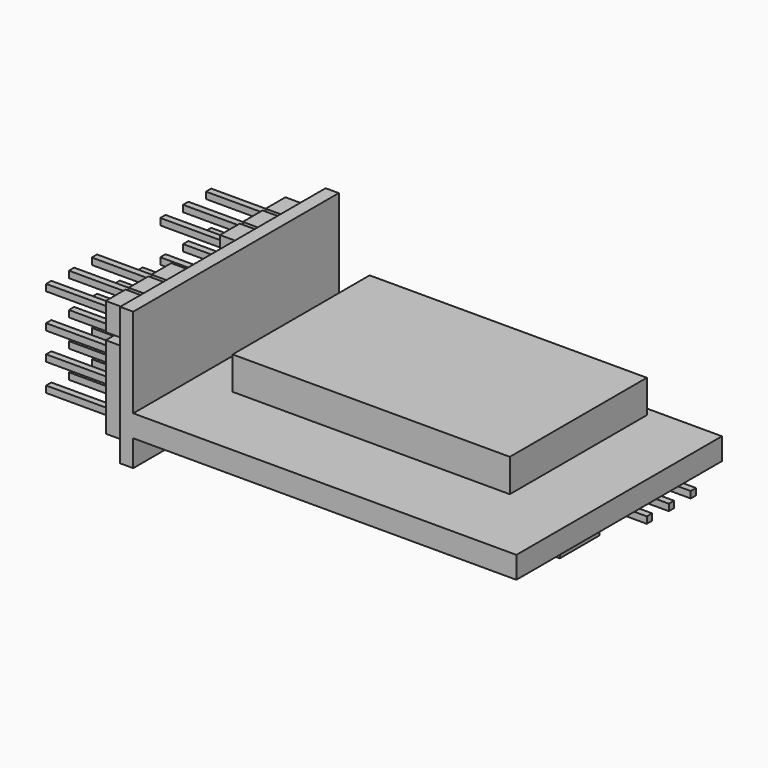
from build123d import *

# Parameters (mm, degrees)
F0_W      = 36.1
F0_H      = 23.4
F0_W_2    = 25.25
F0_H_2    = 15.6
F1_DEPTH  = 2
F2_W      = 2.25
F2_H      = 2.5
F2_W_2    = 0.6
F2_H_2    = 0.6
F2_W_3    = 0.35
F2_H_3    = 1.45
F2_H_4    = 0.5
F2_W_4    = 1.45
F2_H_5    = 2
F2_W_5    = 0.05
F2_H_6    = 0.15
F2_H_7    = 0.1
F1_FACE_W = 23.4
F1_FACE_H = 2
F3_DEPTH  = 1.2
F4_DEPTH  = 2.5
F5_DEPTH  = 8.6
F6_DEPTH  = 5
F7_W      = 2.3
F7_H      = 7.5
F7_W_2    = 0.2
F8_DEPTH  = 2.5
F9_W      = 0.6
F9_H      = 0.6
F10_DEPTH = 6
F7_W_3    = 2.5
F7_H_2    = 4.5
F11_DEPTH = 1.5


with BuildPart() as f1:
    # F0 (on Top) → F1 (new body)
    with BuildSketch(Plane.XY):
        with Locations((18.05, 11.7)):
            Rectangle(F0_W, F0_H)
        with Locations((17.275, 14.8)):
            Rectangle(F0_W_2, F0_H_2, mode=Mode.SUBTRACT)
    extrude(amount=F1_DEPTH)

    # F2 (on face) + F1_face (on face) → F3 (join)
    with BuildSketch(Plane(origin=(0, 0, 0), x_dir=(0, -1, 0), z_dir=(-1, 0, 0))):
        Polygon((-1.45, 2), (0, 2), (0, 10.15), (-23.4, 10.15), (-23.4, 2), (-21.95, 2), (-21.95, 3.55), (-21.95, 6.05), (-21.95, 6.2), (-21.95, 6.7), (-21.95, 9.2), (-19.7, 9.2), (-19.35, 9.2), (-17.1, 9.2), (-16.75, 9.2), (-14.5, 9.2), (-14.15, 9.2), (-11.9, 9.2), (-11.55, 9.2), (-9.3, 9.2), (-8.95, 9.2), (-6.7, 9.2), (-6.35, 9.2), (-4.1, 9.2), (-3.75, 9.2), (-1.5, 9.2), (-1.45, 9.2), align=None)
        Polygon((-23.4, -2.4), (0, -2.4), (0, 0), (-1.45, 0), (-1.45, -1.45), (-1.5, -1.45), (-3.75, -1.45), (-4.1, -1.45), (-6.35, -1.45), (-6.7, -1.45), (-8.95, -1.45), (-9.3, -1.45), (-11.55, -1.45), (-11.9, -1.45), (-14.15, -1.45), (-14.5, -1.45), (-16.75, -1.45), (-17.1, -1.45), (-19.35, -1.45), (-19.7, -1.45), (-21.95, -1.45), (-21.95, 0), (-23.4, 0), align=None)
        with Locations((-20.825, 4.8)):
            Rectangle(F2_W, F2_H)
        with Locations((-20.825, 4.8)):
            Rectangle(F2_W_2, F2_H_2, mode=Mode.SUBTRACT)
        Polygon((-19.7, 6.05), (-19.7, 3.55), (-19.7, 2), (-19.35, 2), (-19.35, 3.55), (-19.35, 6.05), (-19.35, 6.2), (-19.35, 6.7), (-19.35, 9.2), (-19.7, 9.2), (-19.7, 6.7), (-19.7, 6.2), align=None)
        Polygon((-1.5, -1.45), (-1.5, 0), (-2.325, 0), (-2.325, -0.5), (-2.925, -0.5), (-2.925, 0), (-3.75, 0), (-3.75, -1.45), align=None)
        with Locations((-6.525, -0.725)):
            Rectangle(F2_W_3, F2_H_3)
        Polygon((-3.75, 0), (-3.75, 1.05), (-3.75, 2), (-4.1, 2), (-4.1, 1.05), (-4.1, 0), align=None)
        Polygon((-14.5, 1.05), (-14.5, 0), (-14.15, 0), (-14.15, 1.05), (-14.15, 2), (-14.5, 2), align=None)
        Polygon((-11.55, 1.05), (-9.3, 1.05), (-9.3, 2), (-10.125, 2), (-10.725, 2), (-11.55, 2), align=None)
        with Locations((-3.925, -0.725)):
            Rectangle(F2_W_3, F2_H_3)
        Polygon((-10.125, 0), (-9.3, 0), (-9.3, 1.05), (-11.55, 1.05), (-11.55, 0), (-10.725, 0), (-10.725, 0.1), (-10.125, 0.1), align=None)
        with Locations((-7.825, 7.95)):
            Rectangle(F2_W, F2_H)
        with Locations((-7.825, 7.95)):
            Rectangle(F2_W_2, F2_H_2, mode=Mode.SUBTRACT)
        Polygon((-21.125, 2), (-21.95, 2), (-21.95, 1.05), (-19.7, 1.05), (-19.7, 2), (-20.525, 2), align=None)
        with Locations((-18.225, 7.95)):
            Rectangle(F2_W, F2_H)
        with Locations((-18.225, 7.95)):
            Rectangle(F2_W_2, F2_H_2, mode=Mode.SUBTRACT)
        Polygon((-4.1, 1.05), (-4.1, 2), (-4.925, 2), (-5.525, 2), (-6.35, 2), (-6.35, 1.05), align=None)
        Polygon((-14.15, 0), (-14.15, -1.45), (-11.9, -1.45), (-11.9, 0), (-12.725, 0), (-12.725, -0.5), (-13.325, -0.5), (-13.325, 0), align=None)
        Polygon((-14.5, 3.55), (-14.5, 2), (-14.15, 2), (-14.15, 3.55), (-14.15, 6.05), (-14.15, 6.2), (-14.15, 6.7), (-14.15, 9.2), (-14.5, 9.2), (-14.5, 6.7), (-14.5, 6.2), (-14.5, 6.05), align=None)
        Polygon((-7.525, 0), (-6.7, 0), (-6.7, 1.05), (-8.95, 1.05), (-8.95, 0), (-8.125, 0), (-8.125, 0.1), (-7.525, 0.1), align=None)
        Polygon((-16.75, 3.55), (-16.75, 2), (-15.925, 2), (-15.925, 2.6), (-15.325, 2.6), (-15.325, 2), (-14.5, 2), (-14.5, 3.55), align=None)
        Polygon((-21.95, 1.05), (-21.95, 0), (-21.125, 0), (-21.125, 0.1), (-20.525, 0.1), (-20.525, 0), (-19.7, 0), (-19.7, 1.05), align=None)
        with Locations((-18.225, 4.8)):
            Rectangle(F2_W, F2_H)
        with Locations((-18.225, 4.8)):
            Rectangle(F2_W_2, F2_H_2, mode=Mode.SUBTRACT)
        Polygon((-3.75, 6.7), (-3.75, 9.2), (-4.1, 9.2), (-4.1, 6.7), (-4.1, 6.2), (-4.1, 6.05), (-4.1, 3.55), (-4.1, 2), (-3.75, 2), (-3.75, 3.55), (-3.75, 6.05), (-3.75, 6.2), align=None)
        with Locations((-14.325, -0.725)):
            Rectangle(F2_W_3, F2_H_3)
        Polygon((-16.75, 1.05), (-16.75, 0), (-15.925, 0), (-15.925, 0.1), (-15.325, 0.1), (-15.325, 0), (-14.5, 0), (-14.5, 1.05), align=None)
        Polygon((-10.125, 2), (-9.3, 2), (-9.3, 3.55), (-11.55, 3.55), (-11.55, 2), (-10.725, 2), (-10.725, 2.6), (-10.125, 2.6), align=None)
        with Locations((-2.625, 7.95)):
            Rectangle(F2_W, F2_H)
        with Locations((-2.625, 7.95)):
            Rectangle(F2_W_2, F2_H_2, mode=Mode.SUBTRACT)
        Polygon((-14.15, 3.55), (-14.15, 2), (-13.325, 2), (-13.325, 2.6), (-12.725, 2.6), (-12.725, 2), (-11.9, 2), (-11.9, 3.55), align=None)
        with Locations((-5.225, 7.95)):
            Rectangle(F2_W, F2_H)
        with Locations((-5.225, 7.95)):
            Rectangle(F2_W_2, F2_H_2, mode=Mode.SUBTRACT)
        Polygon((-17.1, 1.05), (-17.1, 0), (-16.75, 0), (-16.75, 1.05), (-16.75, 2), (-17.1, 2), align=None)
        with Locations((-13.025, 7.95)):
            Rectangle(F2_W, F2_H)
        with Locations((-13.025, 7.95)):
            Rectangle(F2_W_2, F2_H_2, mode=Mode.SUBTRACT)
        with Locations((-2.625, 4.8)):
            Rectangle(F2_W, F2_H)
        with Locations((-2.625, 4.8)):
            Rectangle(F2_W_2, F2_H_2, mode=Mode.SUBTRACT)
        Polygon((-19.35, 3.55), (-19.35, 2), (-18.525, 2), (-18.525, 2.6), (-17.925, 2.6), (-17.925, 2), (-17.1, 2), (-17.1, 3.55), align=None)
        Polygon((-8.95, 1.05), (-6.7, 1.05), (-6.7, 2), (-7.525, 2), (-8.125, 2), (-8.95, 2), align=None)
        with Locations((-10.425, 7.95)):
            Rectangle(F2_W, F2_H)
        with Locations((-10.425, 7.95)):
            Rectangle(F2_W_2, F2_H_2, mode=Mode.SUBTRACT)
        Polygon((-6.35, 6.7), (-6.35, 9.2), (-6.7, 9.2), (-6.7, 6.7), (-6.7, 6.2), (-6.7, 6.05), (-6.7, 3.55), (-6.7, 2), (-6.35, 2), (-6.35, 3.55), (-6.35, 6.05), (-6.35, 6.2), align=None)
        Polygon((-18.525, 2), (-19.35, 2), (-19.35, 1.05), (-17.1, 1.05), (-17.1, 2), (-17.925, 2), align=None)
        with Locations((-9.125, -0.725)):
            Rectangle(F2_W_3, F2_H_3)
        Polygon((-8.95, 6.7), (-8.95, 9.2), (-9.3, 9.2), (-9.3, 6.7), (-9.3, 6.2), (-9.3, 6.05), (-9.3, 3.55), (-9.3, 2), (-8.95, 2), (-8.95, 3.55), (-8.95, 6.05), (-8.95, 6.2), align=None)
        with Locations((-15.625, 7.95)):
            Rectangle(F2_W, F2_H)
        with Locations((-15.625, 7.95)):
            Rectangle(F2_W_2, F2_H_2, mode=Mode.SUBTRACT)
        Polygon((-14.15, 1.05), (-14.15, 0), (-13.325, 0), (-13.325, 0.1), (-12.725, 0.1), (-12.725, 0), (-11.9, 0), (-11.9, 1.05), align=None)
        with Locations((-5.225, 4.8)):
            Rectangle(F2_W, F2_H)
        with Locations((-5.225, 4.8)):
            Rectangle(F2_W_2, F2_H_2, mode=Mode.SUBTRACT)
        Polygon((-16.75, 0), (-16.75, -1.45), (-14.5, -1.45), (-14.5, 0), (-15.325, 0), (-15.325, -0.5), (-15.925, -0.5), (-15.925, 0), align=None)
        Polygon((-21.95, 3.55), (-21.95, 2), (-21.125, 2), (-21.125, 2.6), (-20.525, 2.6), (-20.525, 2), (-19.7, 2), (-19.7, 3.55), align=None)
        Polygon((-16.75, 2), (-16.75, 1.05), (-14.5, 1.05), (-14.5, 2), (-15.325, 2), (-15.925, 2), align=None)
        Polygon((-21.125, 0), (-21.95, 0), (-21.95, -1.45), (-19.7, -1.45), (-19.7, 0), (-20.525, 0), (-20.525, -0.5), (-21.125, -0.5), align=None)
        Polygon((-6.35, -1.45), (-4.1, -1.45), (-4.1, 0), (-4.925, 0), (-4.925, -0.5), (-5.525, -0.5), (-5.525, 0), (-6.35, 0), align=None)
        Polygon((-19.35, 0), (-19.35, -1.45), (-17.1, -1.45), (-17.1, 0), (-17.925, 0), (-17.925, -0.5), (-18.525, -0.5), (-18.525, 0), align=None)
        with Locations((-13.025, 4.8)):
            Rectangle(F2_W, F2_H)
        with Locations((-13.025, 4.8)):
            Rectangle(F2_W_2, F2_H_2, mode=Mode.SUBTRACT)
        Polygon((-17.1, 6.05), (-17.1, 3.55), (-17.1, 2), (-16.75, 2), (-16.75, 3.55), (-16.75, 6.05), (-16.75, 6.2), (-16.75, 6.7), (-16.75, 9.2), (-17.1, 9.2), (-17.1, 6.7), (-17.1, 6.2), align=None)
        Polygon((-23.4, 2), (-23.4, 0), (-21.95, 0), (-21.95, 1.05), (-21.95, 2), align=None)
        with Locations((-13.025, 6.45)):
            Rectangle(F2_W, F2_H_4)
        with Locations((-15.625, 6.45)):
            Rectangle(F2_W, F2_H_4)
        Polygon((-11.55, -1.45), (-9.3, -1.45), (-9.3, 0), (-10.125, 0), (-10.125, -0.5), (-10.725, -0.5), (-10.725, 0), (-11.55, 0), align=None)
        Polygon((-4.925, 2), (-4.1, 2), (-4.1, 3.55), (-6.35, 3.55), (-6.35, 2), (-5.525, 2), (-5.525, 2.6), (-4.925, 2.6), align=None)
        with Locations((-20.825, 6.45)):
            Rectangle(F2_W, F2_H_4)
        with Locations((-18.225, 6.45)):
            Rectangle(F2_W, F2_H_4)
        with Locations((-10.425, 6.45)):
            Rectangle(F2_W, F2_H_4)
        with Locations((-2.625, 6.45)):
            Rectangle(F2_W, F2_H_4)
        Polygon((-7.525, 2), (-6.7, 2), (-6.7, 3.55), (-8.95, 3.55), (-8.95, 2), (-8.125, 2), (-8.125, 2.6), (-7.525, 2.6), align=None)
        Polygon((-11.9, 1.05), (-11.9, 0), (-11.55, 0), (-11.55, 1.05), (-11.55, 2), (-11.9, 2), align=None)
        Polygon((-6.7, 0), (-6.35, 0), (-6.35, 1.05), (-6.35, 2), (-6.7, 2), (-6.7, 1.05), align=None)
        Polygon((-8.95, -1.45), (-6.7, -1.45), (-6.7, 0), (-7.525, 0), (-7.525, -0.5), (-8.125, -0.5), (-8.125, 0), (-8.95, 0), align=None)
        with Locations((-20.825, 7.95)):
            Rectangle(F2_W, F2_H)
        with Locations((-20.825, 7.95)):
            Rectangle(F2_W_2, F2_H_2, mode=Mode.SUBTRACT)
        Polygon((-11.55, 6.7), (-11.55, 9.2), (-11.9, 9.2), (-11.9, 6.7), (-11.9, 6.2), (-11.9, 6.05), (-11.9, 3.55), (-11.9, 2), (-11.55, 2), (-11.55, 3.55), (-11.55, 6.05), (-11.55, 6.2), align=None)
        Polygon((-1.5, 1.05), (-1.5, 2), (-2.325, 2), (-2.925, 2), (-3.75, 2), (-3.75, 1.05), align=None)
        with Locations((-7.825, 6.45)):
            Rectangle(F2_W, F2_H_4)
        with Locations((-15.625, 4.8)):
            Rectangle(F2_W, F2_H)
        with Locations((-15.625, 4.8)):
            Rectangle(F2_W_2, F2_H_2, mode=Mode.SUBTRACT)
        with Locations((-11.725, -0.725)):
            Rectangle(F2_W_3, F2_H_3)
        with Locations((-5.225, 6.45)):
            Rectangle(F2_W, F2_H_4)
        with Locations((-16.925, -0.725)):
            Rectangle(F2_W_3, F2_H_3)
        Polygon((-19.35, 1.05), (-19.35, 0), (-18.525, 0), (-18.525, 0.1), (-17.925, 0.1), (-17.925, 0), (-17.1, 0), (-17.1, 1.05), align=None)
        with Locations((-10.425, 4.8)):
            Rectangle(F2_W, F2_H)
        with Locations((-10.425, 4.8)):
            Rectangle(F2_W_2, F2_H_2, mode=Mode.SUBTRACT)
        with Locations((-7.825, 4.8)):
            Rectangle(F2_W, F2_H)
        with Locations((-7.825, 4.8)):
            Rectangle(F2_W_2, F2_H_2, mode=Mode.SUBTRACT)
        Polygon((-2.325, 2), (-1.5, 2), (-1.5, 3.55), (-3.75, 3.55), (-3.75, 2), (-2.925, 2), (-2.925, 2.6), (-2.325, 2.6), align=None)
        with Locations((-0.725, 1)):
            Rectangle(F2_W_4, F2_H_5)
        with Locations((-19.525, -0.725)):
            Rectangle(F2_W_3, F2_H_3)
        with Locations((-1.475, -0.725)):
            Rectangle(F2_W_5, F2_H_3)
        Polygon((-2.325, 0), (-1.5, 0), (-1.5, 1.05), (-3.75, 1.05), (-3.75, 0), (-2.925, 0), (-2.925, 0.1), (-2.325, 0.1), align=None)
        Polygon((-4.925, 0), (-4.1, 0), (-4.1, 1.05), (-6.35, 1.05), (-6.35, 0), (-5.525, 0), (-5.525, 0.1), (-4.925, 0.1), align=None)
        Polygon((-9.3, 0), (-8.95, 0), (-8.95, 1.05), (-8.95, 2), (-9.3, 2), (-9.3, 1.05), align=None)
        Polygon((-14.15, 2), (-14.15, 1.05), (-11.9, 1.05), (-11.9, 2), (-12.725, 2), (-13.325, 2), align=None)
        with Locations((-15.625, 6.125)):
            Rectangle(F2_W, F2_H_6)
        with Locations((-7.825, 6.125)):
            Rectangle(F2_W, F2_H_6)
        with Locations((-20.825, 6.125)):
            Rectangle(F2_W, F2_H_6)
        with Locations((-18.225, 6.125)):
            Rectangle(F2_W, F2_H_6)
        Polygon((-1.5, 0), (-1.45, 0), (-1.45, 2), (-1.5, 2), (-1.5, 1.05), align=None)
        Polygon((-1.5, 2), (-1.45, 2), (-1.45, 9.2), (-1.5, 9.2), (-1.5, 6.7), (-1.5, 6.2), (-1.5, 6.05), (-1.5, 3.55), align=None)
        with Locations((-5.225, 6.125)):
            Rectangle(F2_W, F2_H_6)
        Polygon((-19.7, 2), (-19.7, 1.05), (-19.7, 0), (-19.35, 0), (-19.35, 1.05), (-19.35, 2), align=None)
        with Locations((-13.025, 6.125)):
            Rectangle(F2_W, F2_H_6)
        with Locations((-13.025, 0.05)):
            Rectangle(F2_W_2, F2_H_7)
        with Locations((-10.425, 2.3)):
            Rectangle(F2_W_2, F2_H_2)
        with Locations((-7.825, -0.25)):
            Rectangle(F2_W_2, F2_H_4)
        with Locations((-2.625, 6.125)):
            Rectangle(F2_W, F2_H_6)
        with Locations((-5.225, -0.25)):
            Rectangle(F2_W_2, F2_H_4)
        with Locations((-2.625, 4.8)):
            Rectangle(F2_W_2, F2_H_2)
        with Locations((-7.825, 0.05)):
            Rectangle(F2_W_2, F2_H_7)
        with Locations((-18.225, 2.3)):
            Rectangle(F2_W_2, F2_H_2)
        with Locations((-15.625, 4.8)):
            Rectangle(F2_W_2, F2_H_2)
        with Locations((-18.225, 0.05)):
            Rectangle(F2_W_2, F2_H_7)
        with Locations((-2.625, 7.95)):
            Rectangle(F2_W_2, F2_H_2)
        with Locations((-18.225, 4.8)):
            Rectangle(F2_W_2, F2_H_2)
        with Locations((-5.225, 0.05)):
            Rectangle(F2_W_2, F2_H_7)
        with Locations((-10.425, -0.25)):
            Rectangle(F2_W_2, F2_H_4)
        with Locations((-7.825, 4.8)):
            Rectangle(F2_W_2, F2_H_2)
        with Locations((-18.225, -0.25)):
            Rectangle(F2_W_2, F2_H_4)
        with Locations((-20.825, 2.3)):
            Rectangle(F2_W_2, F2_H_2)
        with Locations((-7.825, 2.3)):
            Rectangle(F2_W_2, F2_H_2)
        with Locations((-10.425, 6.125)):
            Rectangle(F2_W, F2_H_6)
        with Locations((-2.625, 2.3)):
            Rectangle(F2_W_2, F2_H_2)
        with Locations((-7.825, 7.95)):
            Rectangle(F2_W_2, F2_H_2)
        with Locations((-5.225, 2.3)):
            Rectangle(F2_W_2, F2_H_2)
        with Locations((-10.425, 0.05)):
            Rectangle(F2_W_2, F2_H_7)
        with Locations((-10.425, 4.8)):
            Rectangle(F2_W_2, F2_H_2)
        with Locations((-13.025, 2.3)):
            Rectangle(F2_W_2, F2_H_2)
        with Locations((-15.625, 2.3)):
            Rectangle(F2_W_2, F2_H_2)
        with Locations((-13.025, -0.25)):
            Rectangle(F2_W_2, F2_H_4)
        with Locations((-5.225, 4.8)):
            Rectangle(F2_W_2, F2_H_2)
        with Locations((-18.225, 7.95)):
            Rectangle(F2_W_2, F2_H_2)
        with Locations((-5.225, 7.95)):
            Rectangle(F2_W_2, F2_H_2)
        with Locations((-13.025, 4.8)):
            Rectangle(F2_W_2, F2_H_2)
        with Locations((-15.625, 7.95)):
            Rectangle(F2_W_2, F2_H_2)
        with Locations((-10.425, 7.95)):
            Rectangle(F2_W_2, F2_H_2)
        with Locations((-20.825, 7.95)):
            Rectangle(F2_W_2, F2_H_2)
        with Locations((-15.625, -0.25)):
            Rectangle(F2_W_2, F2_H_4)
        with Locations((-20.825, -0.25)):
            Rectangle(F2_W_2, F2_H_4)
        with Locations((-15.625, 0.05)):
            Rectangle(F2_W_2, F2_H_7)
        with Locations((-20.825, 4.8)):
            Rectangle(F2_W_2, F2_H_2)
        with Locations((-13.025, 7.95)):
            Rectangle(F2_W_2, F2_H_2)
        with Locations((-2.625, -0.25)):
            Rectangle(F2_W_2, F2_H_4)
        with Locations((-2.625, 0.05)):
            Rectangle(F2_W_2, F2_H_7)
        with Locations((-20.825, 0.05)):
            Rectangle(F2_W_2, F2_H_7)
    with BuildSketch(Plane(origin=(0, 11.7, 1), x_dir=(0, -1, 0), z_dir=(-1, 0, 0))):
        Rectangle(F1_FACE_W, F1_FACE_H)
    extrude(amount=-F3_DEPTH)

    # F2 (on face) → F4 (join)
    with BuildSketch(Plane(origin=(0, 0, 0), x_dir=(0, -1, 0), z_dir=(-1, 0, 0))):
        with Locations((-20.825, 7.95)):
            Rectangle(F2_W, F2_H)
        with Locations((-20.825, 7.95)):
            Rectangle(F2_W_2, F2_H_2, mode=Mode.SUBTRACT)
        with Locations((-20.825, 4.8)):
            Rectangle(F2_W, F2_H)
        with Locations((-20.825, 4.8)):
            Rectangle(F2_W_2, F2_H_2, mode=Mode.SUBTRACT)
        Polygon((-21.125, 2), (-21.95, 2), (-21.95, 1.05), (-19.7, 1.05), (-19.7, 2), (-20.525, 2), align=None)
        Polygon((-21.95, 3.55), (-21.95, 2), (-21.125, 2), (-21.125, 2.6), (-20.525, 2.6), (-20.525, 2), (-19.7, 2), (-19.7, 3.55), align=None)
        Polygon((-21.95, 1.05), (-21.95, 0), (-21.125, 0), (-21.125, 0.1), (-20.525, 0.1), (-20.525, 0), (-19.7, 0), (-19.7, 1.05), align=None)
        Polygon((-21.125, 0), (-21.95, 0), (-21.95, -1.45), (-19.7, -1.45), (-19.7, 0), (-20.525, 0), (-20.525, -0.5), (-21.125, -0.5), align=None)
        Polygon((-19.35, 1.05), (-19.35, 0), (-18.525, 0), (-18.525, 0.1), (-17.925, 0.1), (-17.925, 0), (-17.1, 0), (-17.1, 1.05), align=None)
        Polygon((-19.35, 0), (-19.35, -1.45), (-17.1, -1.45), (-17.1, 0), (-17.925, 0), (-17.925, -0.5), (-18.525, -0.5), (-18.525, 0), align=None)
        Polygon((-18.525, 2), (-19.35, 2), (-19.35, 1.05), (-17.1, 1.05), (-17.1, 2), (-17.925, 2), align=None)
        with Locations((-18.225, 4.8)):
            Rectangle(F2_W, F2_H)
        with Locations((-18.225, 4.8)):
            Rectangle(F2_W_2, F2_H_2, mode=Mode.SUBTRACT)
        with Locations((-18.225, 7.95)):
            Rectangle(F2_W, F2_H)
        with Locations((-18.225, 7.95)):
            Rectangle(F2_W_2, F2_H_2, mode=Mode.SUBTRACT)
        with Locations((-15.625, 7.95)):
            Rectangle(F2_W, F2_H)
        with Locations((-15.625, 7.95)):
            Rectangle(F2_W_2, F2_H_2, mode=Mode.SUBTRACT)
        with Locations((-15.625, 4.8)):
            Rectangle(F2_W, F2_H)
        with Locations((-15.625, 4.8)):
            Rectangle(F2_W_2, F2_H_2, mode=Mode.SUBTRACT)
        Polygon((-16.75, 3.55), (-16.75, 2), (-15.925, 2), (-15.925, 2.6), (-15.325, 2.6), (-15.325, 2), (-14.5, 2), (-14.5, 3.55), align=None)
        Polygon((-16.75, 1.05), (-16.75, 0), (-15.925, 0), (-15.925, 0.1), (-15.325, 0.1), (-15.325, 0), (-14.5, 0), (-14.5, 1.05), align=None)
        Polygon((-19.35, 3.55), (-19.35, 2), (-18.525, 2), (-18.525, 2.6), (-17.925, 2.6), (-17.925, 2), (-17.1, 2), (-17.1, 3.55), align=None)
        Polygon((-16.75, 0), (-16.75, -1.45), (-14.5, -1.45), (-14.5, 0), (-15.325, 0), (-15.325, -0.5), (-15.925, -0.5), (-15.925, 0), align=None)
        Polygon((-16.75, 2), (-16.75, 1.05), (-14.5, 1.05), (-14.5, 2), (-15.325, 2), (-15.925, 2), align=None)
        Polygon((-14.15, 0), (-14.15, -1.45), (-11.9, -1.45), (-11.9, 0), (-12.725, 0), (-12.725, -0.5), (-13.325, -0.5), (-13.325, 0), align=None)
        Polygon((-14.15, 1.05), (-14.15, 0), (-13.325, 0), (-13.325, 0.1), (-12.725, 0.1), (-12.725, 0), (-11.9, 0), (-11.9, 1.05), align=None)
        Polygon((-14.15, 3.55), (-14.15, 2), (-13.325, 2), (-13.325, 2.6), (-12.725, 2.6), (-12.725, 2), (-11.9, 2), (-11.9, 3.55), align=None)
        with Locations((-13.025, 4.8)):
            Rectangle(F2_W, F2_H)
        with Locations((-13.025, 4.8)):
            Rectangle(F2_W_2, F2_H_2, mode=Mode.SUBTRACT)
        with Locations((-7.825, 7.95)):
            Rectangle(F2_W, F2_H)
        with Locations((-7.825, 7.95)):
            Rectangle(F2_W_2, F2_H_2, mode=Mode.SUBTRACT)
        with Locations((-5.225, 7.95)):
            Rectangle(F2_W, F2_H)
        with Locations((-5.225, 7.95)):
            Rectangle(F2_W_2, F2_H_2, mode=Mode.SUBTRACT)
        with Locations((-2.625, 7.95)):
            Rectangle(F2_W, F2_H)
        with Locations((-2.625, 7.95)):
            Rectangle(F2_W_2, F2_H_2, mode=Mode.SUBTRACT)
        with Locations((-7.825, 4.8)):
            Rectangle(F2_W, F2_H)
        with Locations((-7.825, 4.8)):
            Rectangle(F2_W_2, F2_H_2, mode=Mode.SUBTRACT)
        with Locations((-5.225, 4.8)):
            Rectangle(F2_W, F2_H)
        with Locations((-5.225, 4.8)):
            Rectangle(F2_W_2, F2_H_2, mode=Mode.SUBTRACT)
        with Locations((-2.625, 4.8)):
            Rectangle(F2_W, F2_H)
        with Locations((-2.625, 4.8)):
            Rectangle(F2_W_2, F2_H_2, mode=Mode.SUBTRACT)
        Polygon((-7.525, 2), (-6.7, 2), (-6.7, 3.55), (-8.95, 3.55), (-8.95, 2), (-8.125, 2), (-8.125, 2.6), (-7.525, 2.6), align=None)
        with Locations((-10.425, 4.8)):
            Rectangle(F2_W, F2_H)
        with Locations((-10.425, 4.8)):
            Rectangle(F2_W_2, F2_H_2, mode=Mode.SUBTRACT)
        Polygon((-10.125, 2), (-9.3, 2), (-9.3, 3.55), (-11.55, 3.55), (-11.55, 2), (-10.725, 2), (-10.725, 2.6), (-10.125, 2.6), align=None)
        Polygon((-11.55, 1.05), (-9.3, 1.05), (-9.3, 2), (-10.125, 2), (-10.725, 2), (-11.55, 2), align=None)
        Polygon((-10.125, 0), (-9.3, 0), (-9.3, 1.05), (-11.55, 1.05), (-11.55, 0), (-10.725, 0), (-10.725, 0.1), (-10.125, 0.1), align=None)
        Polygon((-11.55, -1.45), (-9.3, -1.45), (-9.3, 0), (-10.125, 0), (-10.125, -0.5), (-10.725, -0.5), (-10.725, 0), (-11.55, 0), align=None)
        Polygon((-8.95, -1.45), (-6.7, -1.45), (-6.7, 0), (-7.525, 0), (-7.525, -0.5), (-8.125, -0.5), (-8.125, 0), (-8.95, 0), align=None)
        Polygon((-8.95, 1.05), (-6.7, 1.05), (-6.7, 2), (-7.525, 2), (-8.125, 2), (-8.95, 2), align=None)
        Polygon((-7.525, 0), (-6.7, 0), (-6.7, 1.05), (-8.95, 1.05), (-8.95, 0), (-8.125, 0), (-8.125, 0.1), (-7.525, 0.1), align=None)
        Polygon((-4.1, 1.05), (-4.1, 2), (-4.925, 2), (-5.525, 2), (-6.35, 2), (-6.35, 1.05), align=None)
        Polygon((-4.925, 2), (-4.1, 2), (-4.1, 3.55), (-6.35, 3.55), (-6.35, 2), (-5.525, 2), (-5.525, 2.6), (-4.925, 2.6), align=None)
        Polygon((-4.925, 0), (-4.1, 0), (-4.1, 1.05), (-6.35, 1.05), (-6.35, 0), (-5.525, 0), (-5.525, 0.1), (-4.925, 0.1), align=None)
        Polygon((-6.35, -1.45), (-4.1, -1.45), (-4.1, 0), (-4.925, 0), (-4.925, -0.5), (-5.525, -0.5), (-5.525, 0), (-6.35, 0), align=None)
        Polygon((-1.5, -1.45), (-1.5, 0), (-2.325, 0), (-2.325, -0.5), (-2.925, -0.5), (-2.925, 0), (-3.75, 0), (-3.75, -1.45), align=None)
        Polygon((-2.325, 0), (-1.5, 0), (-1.5, 1.05), (-3.75, 1.05), (-3.75, 0), (-2.925, 0), (-2.925, 0.1), (-2.325, 0.1), align=None)
        Polygon((-1.5, 1.05), (-1.5, 2), (-2.325, 2), (-2.925, 2), (-3.75, 2), (-3.75, 1.05), align=None)
        Polygon((-2.325, 2), (-1.5, 2), (-1.5, 3.55), (-3.75, 3.55), (-3.75, 2), (-2.925, 2), (-2.925, 2.6), (-2.325, 2.6), align=None)
        Polygon((-14.15, 2), (-14.15, 1.05), (-11.9, 1.05), (-11.9, 2), (-12.725, 2), (-13.325, 2), align=None)
    extrude(amount=F4_DEPTH)

    # F2 (on face) → F5 (join)
    with BuildSketch(Plane(origin=(0, 0, 0), x_dir=(0, -1, 0), z_dir=(-1, 0, 0))):
        with Locations((-2.625, 7.95)):
            Rectangle(F2_W_2, F2_H_2)
        with Locations((-5.225, 7.95)):
            Rectangle(F2_W_2, F2_H_2)
        with Locations((-7.825, 7.95)):
            Rectangle(F2_W_2, F2_H_2)
        with Locations((-7.825, 4.8)):
            Rectangle(F2_W_2, F2_H_2)
        with Locations((-5.225, 4.8)):
            Rectangle(F2_W_2, F2_H_2)
        with Locations((-2.625, 4.8)):
            Rectangle(F2_W_2, F2_H_2)
        with Locations((-2.625, 2.3)):
            Rectangle(F2_W_2, F2_H_2)
        with Locations((-5.225, 2.3)):
            Rectangle(F2_W_2, F2_H_2)
        with Locations((-7.825, 2.3)):
            Rectangle(F2_W_2, F2_H_2)
        with Locations((-7.825, -0.25)):
            Rectangle(F2_W_2, F2_H_4)
        with Locations((-5.225, -0.25)):
            Rectangle(F2_W_2, F2_H_4)
        with Locations((-2.625, -0.25)):
            Rectangle(F2_W_2, F2_H_4)
        with Locations((-5.225, 0.05)):
            Rectangle(F2_W_2, F2_H_7)
        with Locations((-7.825, 0.05)):
            Rectangle(F2_W_2, F2_H_7)
        with Locations((-2.625, 0.05)):
            Rectangle(F2_W_2, F2_H_7)
        with Locations((-10.425, -0.25)):
            Rectangle(F2_W_2, F2_H_4)
        with Locations((-10.425, 0.05)):
            Rectangle(F2_W_2, F2_H_7)
        with Locations((-10.425, 2.3)):
            Rectangle(F2_W_2, F2_H_2)
        with Locations((-10.425, 4.8)):
            Rectangle(F2_W_2, F2_H_2)
        with Locations((-15.625, 7.95)):
            Rectangle(F2_W_2, F2_H_2)
        with Locations((-18.225, 7.95)):
            Rectangle(F2_W_2, F2_H_2)
        with Locations((-20.825, 7.95)):
            Rectangle(F2_W_2, F2_H_2)
        with Locations((-20.825, 4.8)):
            Rectangle(F2_W_2, F2_H_2)
        with Locations((-18.225, 4.8)):
            Rectangle(F2_W_2, F2_H_2)
        with Locations((-15.625, 4.8)):
            Rectangle(F2_W_2, F2_H_2)
        with Locations((-13.025, 4.8)):
            Rectangle(F2_W_2, F2_H_2)
        with Locations((-13.025, 2.3)):
            Rectangle(F2_W_2, F2_H_2)
        with Locations((-15.625, 2.3)):
            Rectangle(F2_W_2, F2_H_2)
        with Locations((-18.225, 2.3)):
            Rectangle(F2_W_2, F2_H_2)
        with Locations((-20.825, 2.3)):
            Rectangle(F2_W_2, F2_H_2)
        with Locations((-20.825, -0.25)):
            Rectangle(F2_W_2, F2_H_4)
        with Locations((-20.825, 0.05)):
            Rectangle(F2_W_2, F2_H_7)
        with Locations((-18.225, -0.25)):
            Rectangle(F2_W_2, F2_H_4)
        with Locations((-15.625, -0.25)):
            Rectangle(F2_W_2, F2_H_4)
        with Locations((-13.025, -0.25)):
            Rectangle(F2_W_2, F2_H_4)
        with Locations((-13.025, 0.05)):
            Rectangle(F2_W_2, F2_H_7)
        with Locations((-15.625, 0.05)):
            Rectangle(F2_W_2, F2_H_7)
        with Locations((-18.225, 0.05)):
            Rectangle(F2_W_2, F2_H_7)
    extrude(amount=F5_DEPTH)

    # F0 (on Top) → F6 (join)
    with BuildSketch(Plane.XY):
        with Locations((17.275, 14.8)):
            Rectangle(F0_W_2, F0_H_2)
    extrude(amount=F6_DEPTH)

    # F7 (on face) → F8 (join)
    with BuildSketch(Plane.XY):
        with Locations((28.75, 17.65)):
            Rectangle(F7_W, F7_H)
        with Locations((30, 17.65)):
            Rectangle(F7_W_2, F7_H)
    extrude(amount=-F8_DEPTH)

    # F9 (on face) → F10 (join)
    with BuildSketch(Plane.YZ.offset(30.1)):
        with Locations((15.15, -1.25)):
            Rectangle(F9_W, F9_H)
        with Locations((17.65, -1.25)):
            Rectangle(F9_W, F9_H)
        with Locations((20.15, -1.25)):
            Rectangle(F9_W, F9_H)
    extrude(amount=F10_DEPTH)

    # F7 (on face) → F11 (join)
    with BuildSketch(Plane.XY):
        with Locations((33.4, 9)):
            Rectangle(F7_W_3, F7_H_2)
    extrude(amount=-F11_DEPTH)


solid = f1.part
